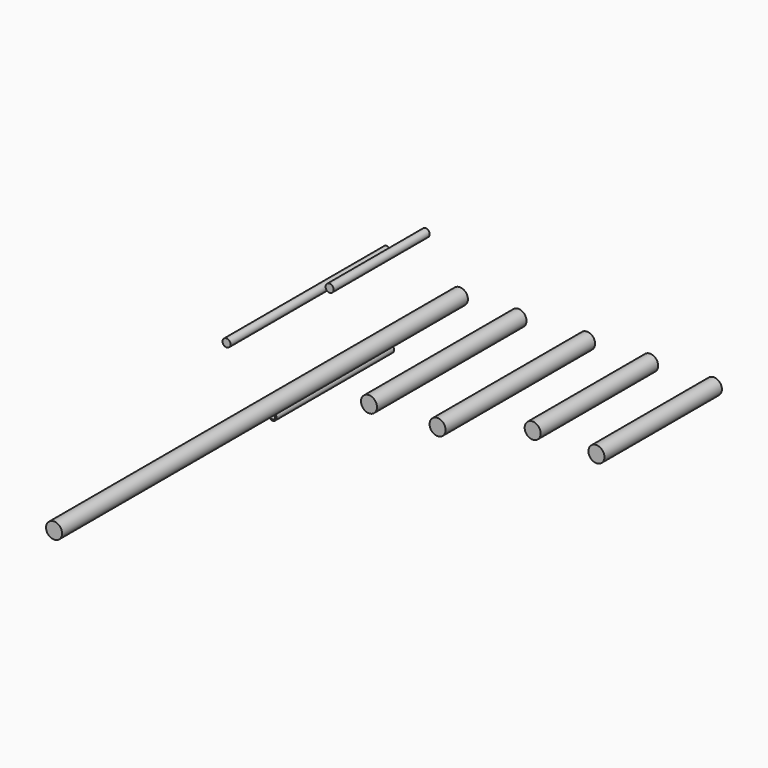
from build123d import *

# Parameters (mm, degrees)
F0_R     = 3
F1_DEPTH = 190
F2_DEPTH = 70
F3_DEPTH = 55
F4_DEPTH = 55
F0_R_2   = 1.5
F5_DEPTH = 75
F6_DEPTH = 45
F0_R_3   = 1
F7_DEPTH = 55
F0_R_4   = 0.75
F8_DEPTH = 25


with BuildPart() as f1:
    # F0 (on Front) → F1 (new body)
    with BuildSketch(Plane.XZ):
        with Locations((-33.020835, 29.618056)):
            Circle(F0_R)
    extrude(amount=F1_DEPTH)


with BuildPart() as f2:
    # F0 (on Front) → F2 (new body)
    with BuildSketch(Plane.XZ):
        with Locations((-11.07639, 29.618056)):
            Circle(F0_R)
        with Locations((14.618056, 30.451389)):
            Circle(F0_R)
    extrude(amount=F2_DEPTH)


with BuildPart() as f3:
    # F0 (on Front) → F3 (new body)
    with BuildSketch(Plane.XZ):
        with Locations((38.229167, 30.868057)):
            Circle(F0_R)
    extrude(amount=F3_DEPTH)


with BuildPart() as f4:
    # F0 (on Front) → F4 (new body)
    with BuildSketch(Plane.XZ):
        with Locations((62.118057, 30.868057)):
            Circle(F0_R)
    extrude(amount=F4_DEPTH)


with BuildPart() as f5:
    # F0 (on Front) → F5 (new body)
    with BuildSketch(Plane.XZ):
        with Locations((-60.43186, 35.825823)):
            Circle(F0_R_2)
    extrude(amount=F5_DEPTH)


with BuildPart() as f6:
    # F0 (on Front) → F6 (new body)
    with BuildSketch(Plane.XZ):
        with Locations((-45.820963, 46.421356)):
            Circle(F0_R_2)
    extrude(amount=F6_DEPTH)


with BuildPart() as f7:
    # F0 (on Front) → F7 (new body)
    with BuildSketch(Plane.XZ):
        with Locations((-59.185926, 3.923611)):
            Circle(F0_R_2)
        with Locations((-59.185926, 3.923611)):
            Circle(F0_R_3, mode=Mode.SUBTRACT)
    extrude(amount=F7_DEPTH)


with BuildPart() as f8:
    # F0 (on Front) → F8 (new body)
    with BuildSketch(Plane.XZ):
        with Locations((-43.630369, 3.923611)):
            Circle(F0_R_4)
    extrude(amount=F8_DEPTH)


solid = Compound([f1.part, f2.part, f3.part, f4.part, f5.part, f6.part, f7.part, f8.part])
